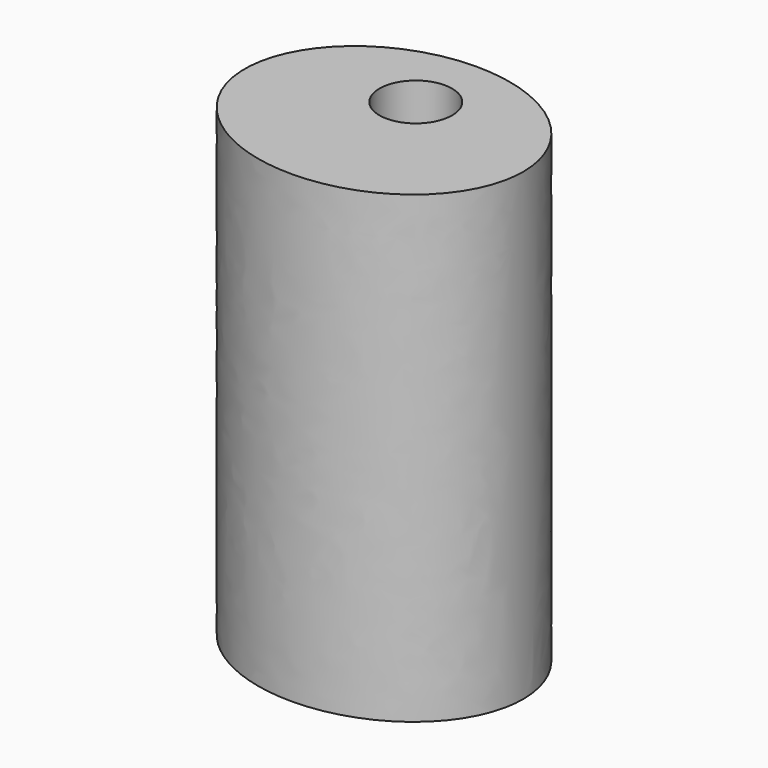
from build123d import *

# Parameters (mm, degrees)
F0_R     = 1.565119
F1_DEPTH = 20


with BuildPart() as f1:
    # F0 (on Top) → F1 (new body)
    with BuildSketch(Plane.XY):
        with BuildLine():
            add(Edge.make_bspline(
                [(-2.295256, 9.524182), (-2.295256, 18.184436), (-11.295256, 13.854309), (-20.295256, 9.524182), (-11.295256, 5.194055), (-2.295256, 0.863928), (-2.295256, 9.524182)],
                knots=[0, 0, 0, 2.094395, 2.094395, 4.18879, 4.18879, 6.283185, 6.283185, 6.283185], degree=2, weights=[1, 0.5, 1, 0.5, 1, 0.5, 1]))
        make_face()
        with Locations((-8.295256, 11.236168)):
            Circle(F0_R, mode=Mode.SUBTRACT)
    extrude(amount=F1_DEPTH)


solid = f1.part
